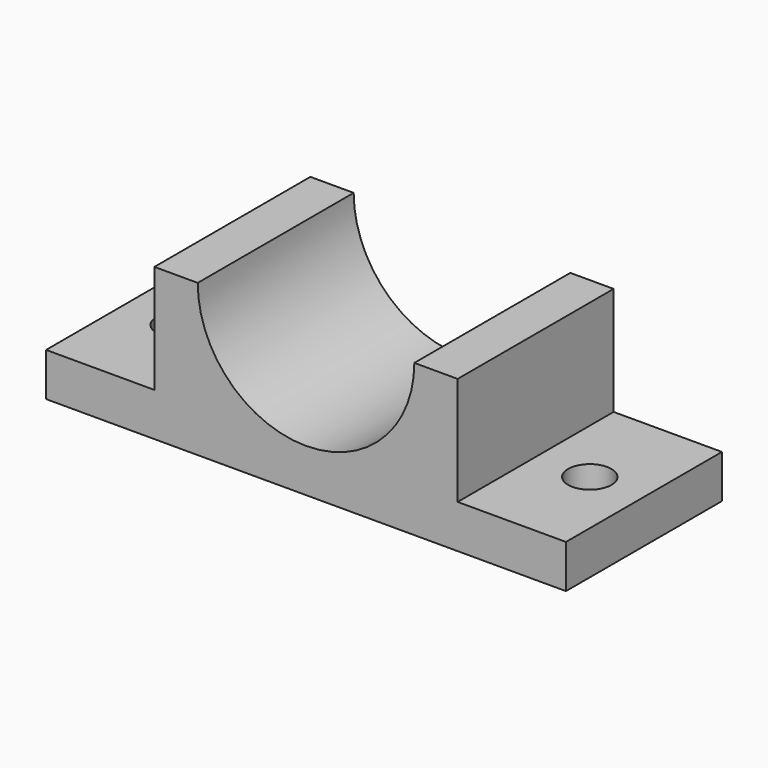
from build123d import *

# Parameters (mm, degrees)
F1_DEPTH = 57.15
F2_R     = 6.35
F3_DEPTH = 25.4


with BuildPart() as f1:
    # F0 (on Front) → F1 (new body)
    with BuildSketch(Plane.XZ):
        with BuildLine():
            Line((-76.2, 0), (0, 0))
            Line((0, 0), (76.2, 0))
            Line((76.2, 0), (76.2, 12.7))
            Line((76.2, 12.7), (44.45, 12.7))
            Line((44.45, 12.7), (44.45, 44.45))
            Line((44.45, 44.45), (31.75, 44.45))
            ThreePointArc((31.75, 44.45), (0, 12.7), (-31.75, 44.45))
            Line((-31.75, 44.45), (-44.45, 44.45))
            Line((-44.45, 44.45), (-44.45, 12.7))
            Line((-44.45, 12.7), (-76.2, 12.7))
            Line((-76.2, 12.7), (-76.2, 0))
        make_face()
    extrude(amount=F1_DEPTH)

    # F2 (on Top) → F3 (cut)
    with BuildSketch(Plane.XY):
        with Locations((-60.325, -28.575)):
            Circle(F2_R)
        with Locations((60.325, -28.575)):
            Circle(F2_R)
    extrude(amount=F3_DEPTH, mode=Mode.SUBTRACT)


solid = f1.part
